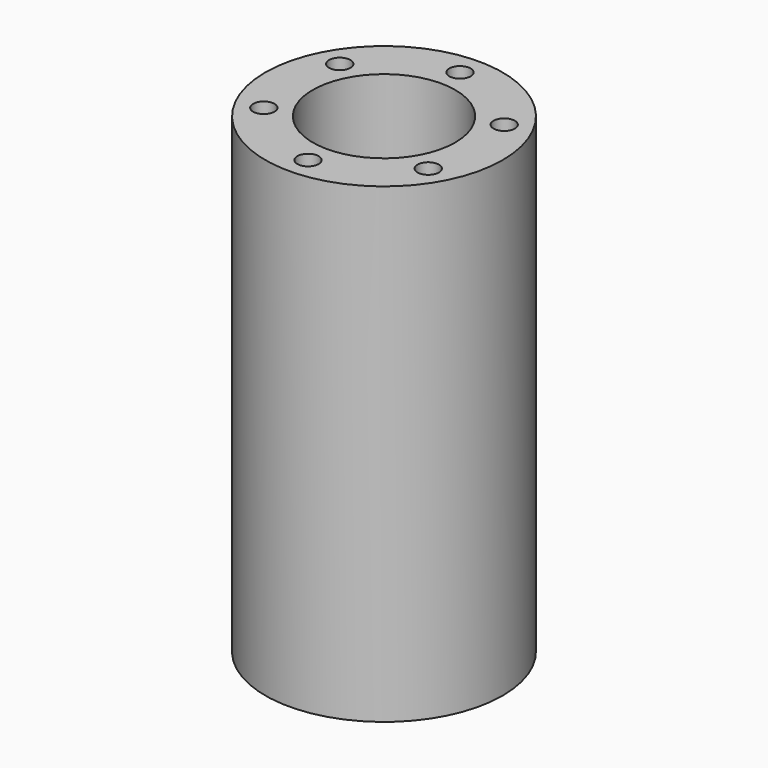
from build123d import *

# Parameters (mm, degrees)
F0_R     = 25
F0_R_2   = 15
F1_DEPTH = 94.3
F2_R     = 2.25
F3_DEPTH = 18
F4_R     = 25
F5_DEPTH = 5
F6_R     = 3.1
F7_DEPTH = 25


with BuildPart() as f1:
    # F0 (on Top) → F1 (new body)
    with BuildSketch(Plane.XY):
        Circle(F0_R)
        Circle(F0_R_2, mode=Mode.SUBTRACT)
    extrude(amount=F1_DEPTH)

    # F2 (on face) → F3 (cut)
    with BuildSketch(Plane.XY.offset(94.3)):
        with Locations((0, 20)):
            Circle(F2_R)
        with Locations((-17.320508, -10)):
            Circle(F2_R)
        with Locations((17.320508, -10)):
            Circle(F2_R)
        with Locations((0, -20)):
            Circle(F2_R)
        with Locations((17.320508, 10)):
            Circle(F2_R)
        with Locations((-17.320508, 10)):
            Circle(F2_R)
    extrude(amount=-F3_DEPTH, mode=Mode.SUBTRACT)

    # F4 (on face) → F5 (join)
    with BuildSketch(Plane(origin=(0, 0, 0), x_dir=(1, 0, 0), z_dir=(0, 0, -1))):
        Circle(F4_R)
    extrude(amount=F5_DEPTH)

    # F6 (on face) → F7 (cut)
    with BuildSketch(Plane(origin=(0, 0, -5), x_dir=(1, 0, 0), z_dir=(0, 0, -1))):
        Circle(F6_R)
    extrude(amount=-F7_DEPTH, mode=Mode.SUBTRACT)


solid = f1.part
